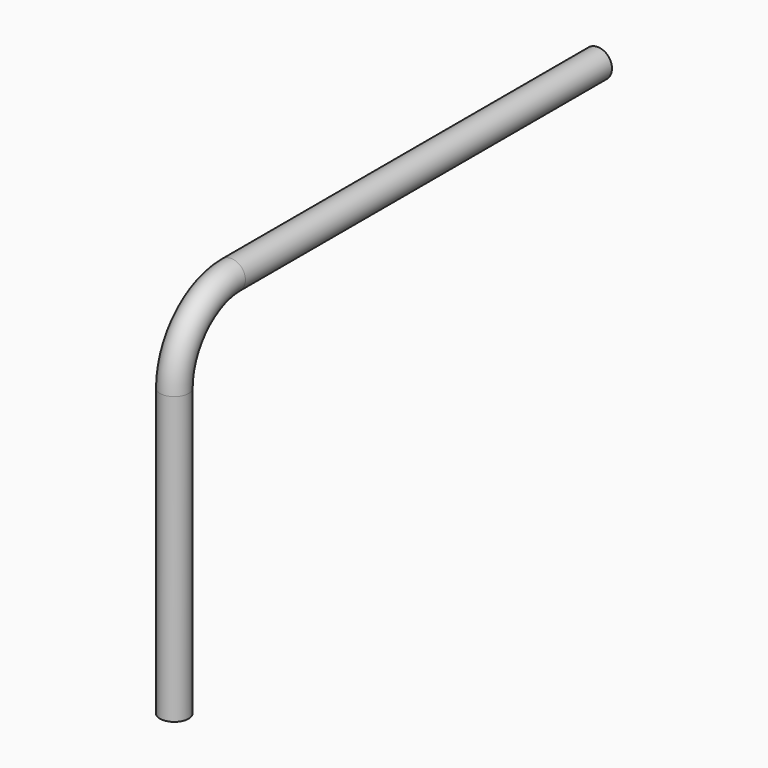
from build123d import *

# Parameters (mm, degrees)
F2_R = 1.5875


with BuildPart() as f3:
    # F3: sweep along a path in F0
    with BuildLine(Plane.YZ) as f3_path:
        Line((0, -39.624), (0, -7.874))
        ThreePointArc((0, -7.874), (2.3062412049, -2.3062412049), (7.874, 0))
        Line((7.874, 0), (58.674, 0))
    # F2 (on plane+point) → F3 (sweep)
    with BuildSketch(Plane.XY.offset(-39.624)):
        Circle(F2_R)
    sweep(path=f3_path.line)


solid = f3.part
